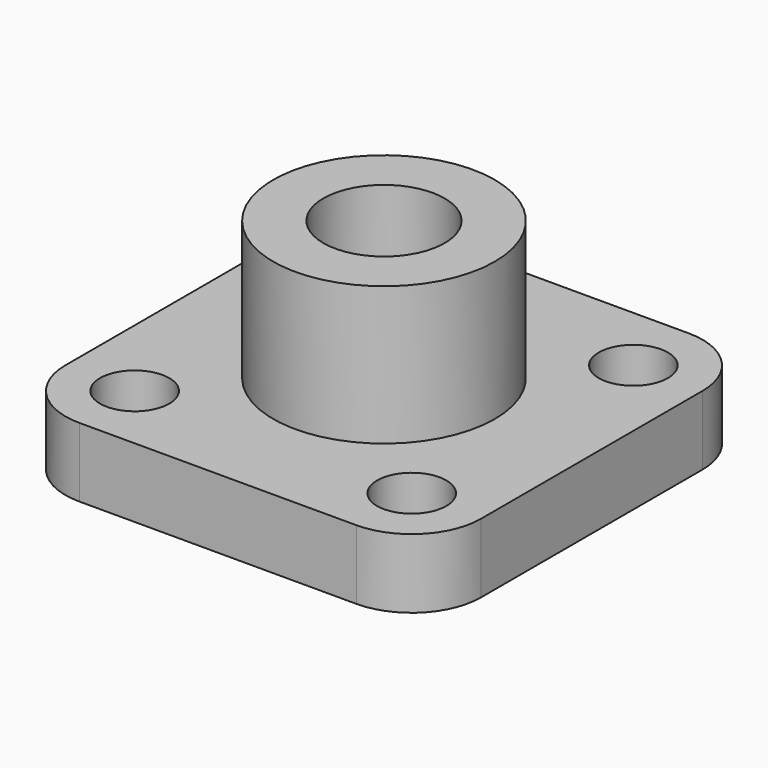
from build123d import *

# Parameters (mm, degrees)
F0_W     = 60
F0_H     = 60
F1_DEPTH = 10
F2_R     = 10
F4_D     = 10
F4_DEPTH = 10
F4_TIP   = 3.0043030951
F5_R     = 16
F6_DEPTH = 20
F8_D     = 17.5
F8_DEPTH = 30
F8_TIP   = 5.2575304165


with BuildPart() as f1:
    # F0 (on Top) → F1 (new body)
    with BuildSketch(Plane.XY):
        Rectangle(F0_W, F0_H)
    extrude(amount=F1_DEPTH)

    # F2
    f2_edges = [f1.edges().sort_by_distance(p)[0] for p in [
        (-30, 30, 5),
        (-30, -30, 5),
        (30, -30, 5),
        (30, 30, 5),
    ]]
    fillet(f2_edges, radius=F2_R)

    # F4
    with Locations(Plane.XY.offset(10)):
        with Locations((-20, 20), (20, 20), (20, -20), (-20, -20)):
            Hole(F4_D / 2, depth=F4_DEPTH)
            with Locations((0, 0, -(F4_DEPTH + F4_TIP / 2))):  # 118° drill point
                Cone(0, F4_D / 2, F4_TIP, mode=Mode.SUBTRACT)

    # F5 (on face) → F6 (join)
    with BuildSketch(Plane.XY.offset(10)):
        Circle(F5_R)
    extrude(amount=F6_DEPTH)

    # F8
    with Locations(Plane.XY.offset(30)):
        with Locations((0, 0)):
            Hole(F8_D / 2, depth=F8_DEPTH)
            with Locations((0, 0, -(F8_DEPTH + F8_TIP / 2))):  # 118° drill point
                Cone(0, F8_D / 2, F8_TIP, mode=Mode.SUBTRACT)


solid = f1.part
